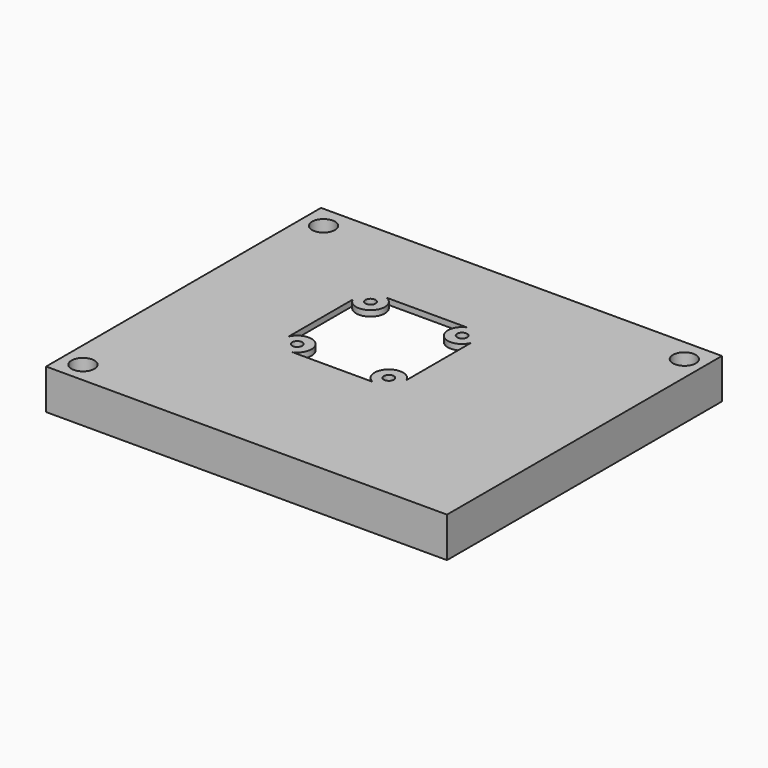
from build123d import *

# Parameters (mm, degrees)
SKETCH009_W          = 140
SKETCH009_H          = 120
PAD004_DEPTH         = 14
POCKET005_DEPTH      = 12
SKETCH011_R          = 1.75
POCKET006_DEPTH      = 0.001
POCKET006_DEPTH_BACK = 14.001
SKETCH012_R          = 4
POCKET007_DEPTH      = 12.001
SKETCH013_R          = 1.75
POCKET008_DEPTH      = 14.001


with BuildPart() as part:
    # Sketch009 → Pad004 (new body)
    with BuildSketch(Plane.XY):
        with Locations((-11.165, 15.85)):
            Rectangle(SKETCH009_W, SKETCH009_H)
    extrude(amount=PAD004_DEPTH)

    # Sketch010 → Pocket005 (cut)
    with BuildSketch(Plane.XY):
        with BuildLine():
            ThreePointArc((-79.165, 60.35), (-69.619058, 64.304058), (-65.665, 73.85))
            Line((43.335, 73.85), (-65.665, 73.85))
            ThreePointArc((43.335, 73.85), (47.289058, 64.304058), (56.835, 60.35))
            Line((56.835, -42.15), (56.835, 60.35))
            Line((-65.665, -42.15), (56.835, -42.15))
            ThreePointArc((-65.665, -42.15), (-69.619058, -32.604058), (-79.165, -28.65))
            Line((-79.165, 60.35), (-79.165, -28.65))
        make_face()
    extrude(amount=POCKET005_DEPTH, mode=Mode.SUBTRACT)

    # Sketch011 → Pocket006 (cut, two sides)
    with BuildSketch(Plane.XY) as pocket006_sk:
        with Locations((-74, 68)):
            Circle(SKETCH011_R)
        with Locations((52, 68)):
            Circle(SKETCH011_R)
        with Locations((-74, -37)):
            Circle(SKETCH011_R)
    extrude(amount=-POCKET006_DEPTH, mode=Mode.SUBTRACT)
    extrude(pocket006_sk.sketch, amount=POCKET006_DEPTH_BACK, mode=Mode.SUBTRACT)

    # Sketch012 (on DatumPlane) → Pocket007 (cut, through all)
    with BuildSketch(Plane.XY.offset(2)):
        with Locations((-74, 68)):
            Circle(SKETCH012_R)
        with Locations((52, 68)):
            Circle(SKETCH012_R)
        with Locations((-74, -37)):
            Circle(SKETCH012_R)
    extrude(amount=POCKET007_DEPTH, mode=Mode.SUBTRACT)

    # Sketch013 → Pocket008 (cut, through all)
    with BuildSketch(Plane.XY):
        with Locations((-36, 41)):
            Circle(SKETCH013_R)
        with Locations((-4, 41)):
            Circle(SKETCH013_R)
        with Locations((-36, 9)):
            Circle(SKETCH013_R)
        with Locations((-4, 9)):
            Circle(SKETCH013_R)
        with BuildLine():
            ThreePointArc((-40.582576, 39), (-32.464466, 37.464466), (-34, 45.582576))
            Line((-34, 45.582576), (-6, 45.582576))
            ThreePointArc((-6, 45.582576), (-7.535534, 37.464466), (0.582576, 39))
            Line((0.582576, 39), (0.582576, 11))
            ThreePointArc((0.582576, 11), (-7.535534, 12.535534), (-6, 4.417424))
            Line((-6, 4.417424), (-34, 4.417424))
            ThreePointArc((-34, 4.417424), (-32.464466, 12.535534), (-40.582576, 11))
            Line((-40.582576, 39), (-40.582576, 11))
        make_face()
    extrude(amount=POCKET008_DEPTH, mode=Mode.SUBTRACT)


with BuildPart() as part_1:
    # Body001 placement: moved
    add(part.part.moved(Location((0, 0, 32))))


solid = part_1.part
